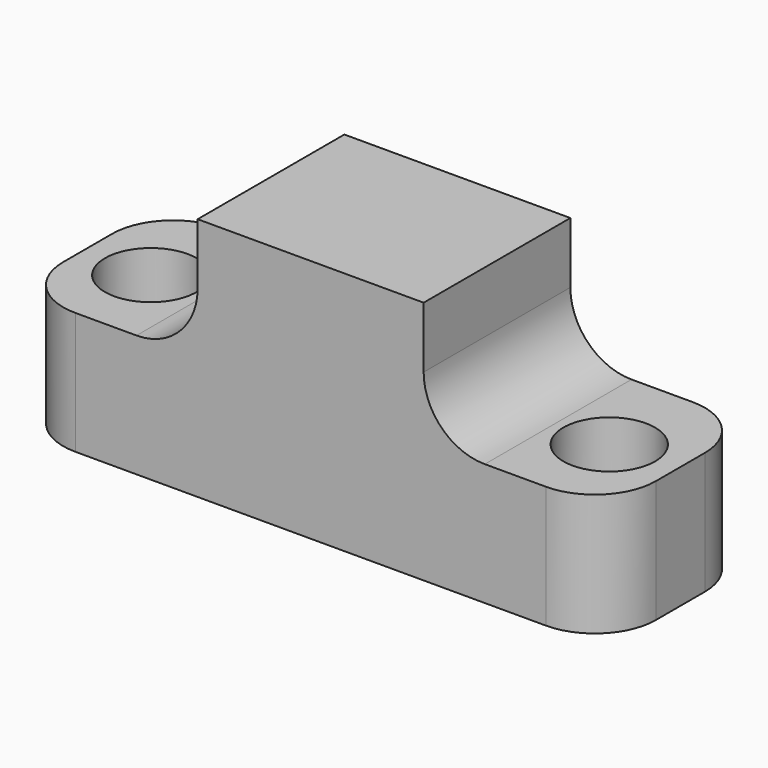
from build123d import *

# Parameters (mm, degrees)
F1_DEPTH = 19.05
F2_R     = 6.35
F4_D     = 9.525


with BuildPart() as f1:
    # F0 (on Front) → F1 (new body)
    with BuildSketch(Plane.XZ):
        Polygon((-11.738134, 16.807301), (-30.788134, 16.807301), (-30.788134, 4.107301), (0.961866, 4.107301), (0.961866, 29.507301), (-11.738134, 29.507301), align=None)
    extrude(amount=F1_DEPTH)

    # F2
    f2_edges = [f1.edges().sort_by_distance(p)[0] for p in [
        (-30.788134, 0, 10.457301),
        (-30.788134, -19.05, 10.457301),
        (-11.738134, -9.525, 16.807301),
    ]]
    fillet(f2_edges, radius=F2_R)

    # F4 (through all)
    with Locations(Plane.XY.offset(16.807301)):
        with Locations((-23.808645, -10.041741)):
            Hole(F4_D / 2)

    # F5: F1 across plane


with BuildPart() as f1_1:
    add(f1.part)
    add(f1.part.mirror(Plane.YZ))


solid = f1_1.part
